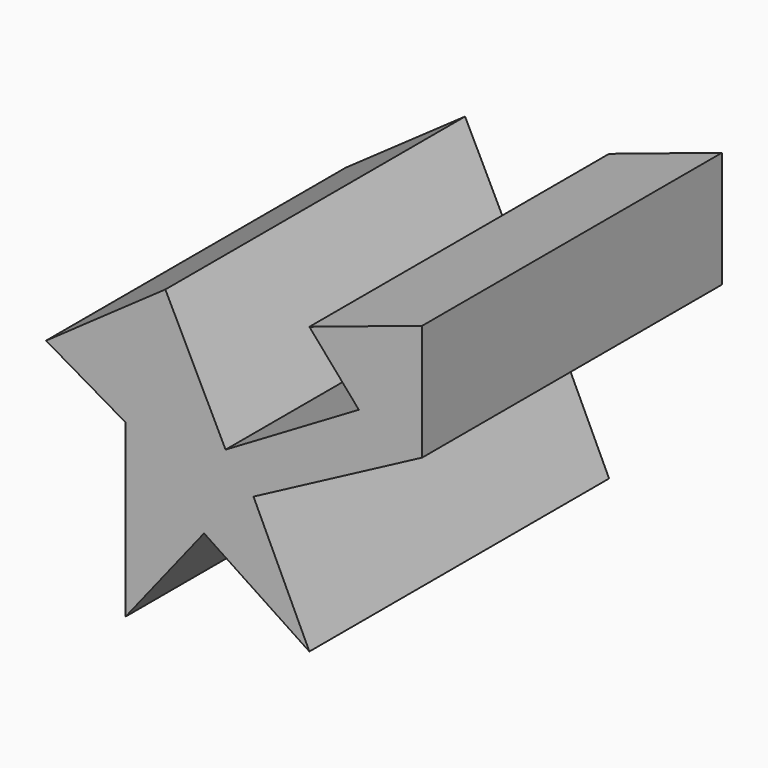
from build123d import *

# Parameters (mm, degrees)
F1_DEPTH = 50


with BuildPart() as f1:
    # F0 (on Front) → F1 (new body, symmetric)
    with BuildSketch(Plane.XZ):
        Polygon((-23.524592, 45.471314), (-55.368856, 23.094265), (-34.139346, 10.758198), (-34.139346, -5.020492), (-34.139346, -34.856558), (-13.196721, -8.463115), (14.918035, -27.110657), (0, 4.446722), (45.040984, 28.258197), (45.040984, 59.241802), (14.918035, 49.200822), (28.114753, 33.995904), (-7.459017, 13.053278), align=None)
    extrude(amount=F1_DEPTH, both=True)


solid = f1.part
